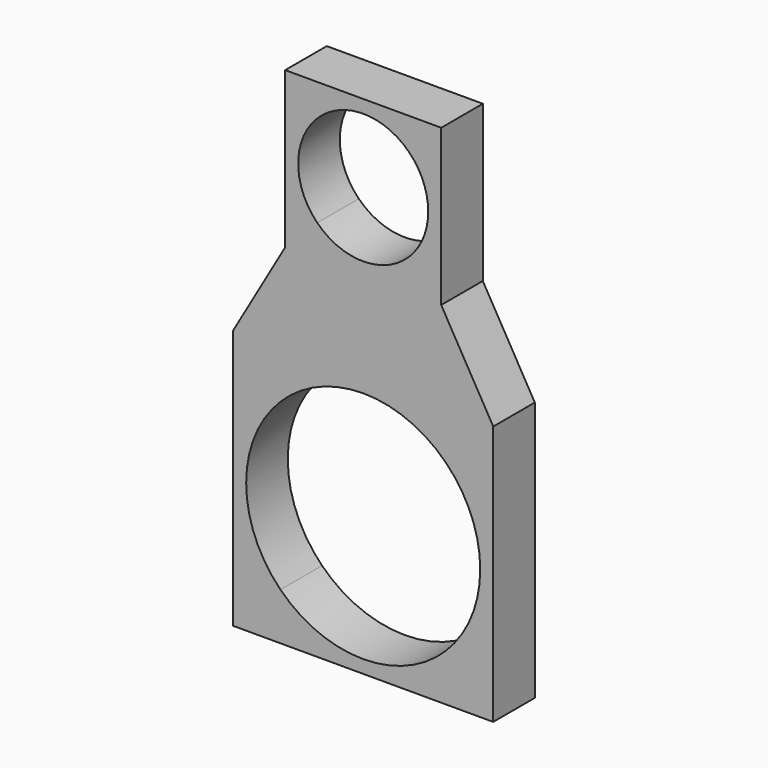
from build123d import *

# Parameters (mm, degrees)
F1_DEPTH = 25.4


with BuildPart() as f1:
    # F0 (on Front) → F1 (new body)
    with BuildSketch(Plane.XZ):
        Polygon((25.4, 43.994091), (0, 0), (127, 0), (101.6, 43.994091), align=None)
        with BuildLine():
            Line((23.088847, -103.911153), (0, -127))
            Line((0, -127), (127, -127))
            Line((127, -127), (103.911153, -103.911153))
            ThreePointArc((103.911153, -103.911153), (63.5, -120.65), (23.088847, -103.911153))
        make_face()
        with BuildLine():
            Line((23.088847, -23.088847), (0, 0))
            Line((0, 0), (0, -127))
            Line((0, -127), (23.088847, -103.911153))
            ThreePointArc((23.088847, -103.911153), (6.35, -63.5), (23.088847, -23.088847))
        make_face()
        with BuildLine():
            Line((127, -127), (127, 0))
            Line((127, 0), (103.911153, -23.088847))
            ThreePointArc((103.911153, -23.088847), (116.299715, -41.629642), (120.65, -63.5))
            ThreePointArc((120.65, -63.5), (116.299715, -85.370358), (103.911153, -103.911153))
            Line((103.911153, -103.911153), (127, -127))
        make_face()
        with BuildLine():
            Line((25.4, 120.194091), (25.4, 43.994091))
            Line((25.4, 43.994091), (41.04936, 59.64345))
            ThreePointArc((41.04936, 59.64345), (31.75, 82.094091), (41.04936, 104.544731))
            Line((41.04936, 104.544731), (25.4, 120.194091))
        make_face()
        with BuildLine():
            Line((85.95064, 59.64345), (101.6, 43.994091))
            Line((101.6, 43.994091), (101.6, 120.194091))
            Line((101.6, 120.194091), (85.95064, 104.544731))
            ThreePointArc((85.95064, 104.544731), (92.833175, 94.244289), (95.25, 82.094091))
            ThreePointArc((95.25, 82.094091), (92.833175, 69.943892), (85.95064, 59.64345))
        make_face()
        with BuildLine():
            Line((127, 0), (0, 0))
            Line((0, 0), (23.088847, -23.088847))
            ThreePointArc((23.088847, -23.088847), (63.5, -6.35), (103.911153, -23.088847))
            Line((103.911153, -23.088847), (127, 0))
        make_face()
        with BuildLine():
            Line((41.04936, 59.64345), (25.4, 43.994091))
            Line((25.4, 43.994091), (101.6, 43.994091))
            Line((101.6, 43.994091), (85.95064, 59.64345))
            ThreePointArc((85.95064, 59.64345), (63.5, 50.344091), (41.04936, 59.64345))
        make_face()
        with BuildLine():
            Line((101.6, 120.194091), (25.4, 120.194091))
            Line((25.4, 120.194091), (41.04936, 104.544731))
            ThreePointArc((41.04936, 104.544731), (63.5, 113.844091), (85.95064, 104.544731))
            Line((85.95064, 104.544731), (101.6, 120.194091))
        make_face()
    extrude(amount=F1_DEPTH)


solid = f1.part
